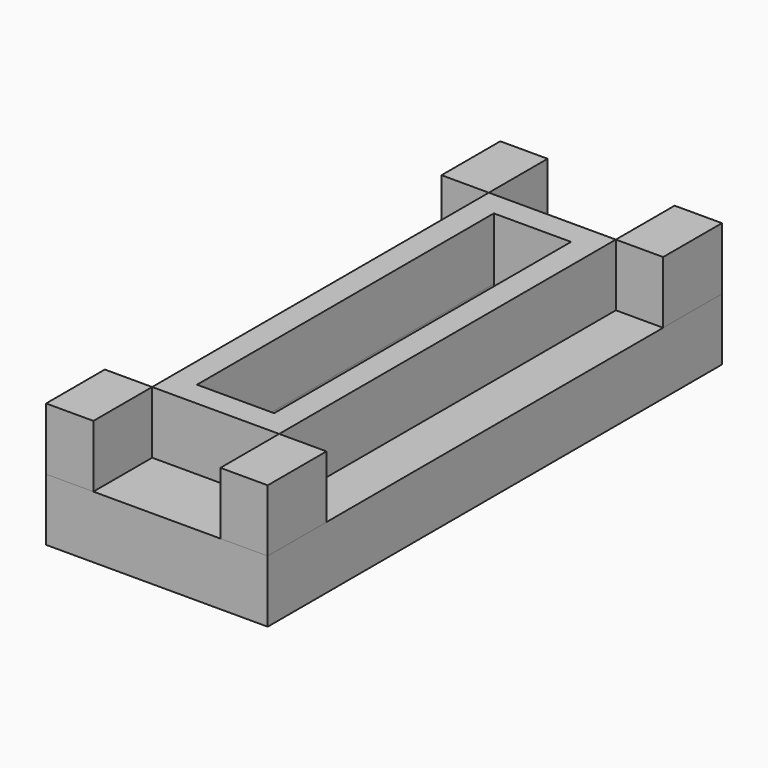
from build123d import *

# Parameters (mm, degrees)
F0_W     = 89
F0_H     = 228
F0_W_2   = 31
F0_H_2   = 149
F1_DEPTH = 25
F2_W     = 51
F2_H     = 169
F2_W_2   = 31
F2_H_2   = 149
F2_W_3   = 19
F2_H_3   = 29.5
F3_DEPTH = 25


with BuildPart() as f1:
    # F0 (on Top) → F1 (new body)
    with BuildSketch(Plane.XY):
        with Locations((23.458652, 74.5)):
            Rectangle(F0_W, F0_H)
        with Locations((23.458652, 74.5)):
            Rectangle(F0_W_2, F0_H_2, mode=Mode.SUBTRACT)
    extrude(amount=F1_DEPTH)


with BuildPart() as f3:
    # F2 (on face) → F3 (new body)
    with BuildSketch(Plane.XY.offset(25)):
        with Locations((23.458652, 74.5)):
            Rectangle(F2_W, F2_H)
        with Locations((23.458652, 74.5)):
            Rectangle(F2_W_2, F2_H_2, mode=Mode.SUBTRACT)
        with Locations((58.458652, 173.75)):
            Rectangle(F2_W_3, F2_H_3)
        with Locations((58.458652, -24.75)):
            Rectangle(F2_W_3, F2_H_3)
        with Locations((-11.541348, -24.75)):
            Rectangle(F2_W_3, F2_H_3)
        with Locations((-11.541348, 173.75)):
            Rectangle(F2_W_3, F2_H_3)
    extrude(amount=F3_DEPTH)


solid = Compound([f1.part, f3.part])
